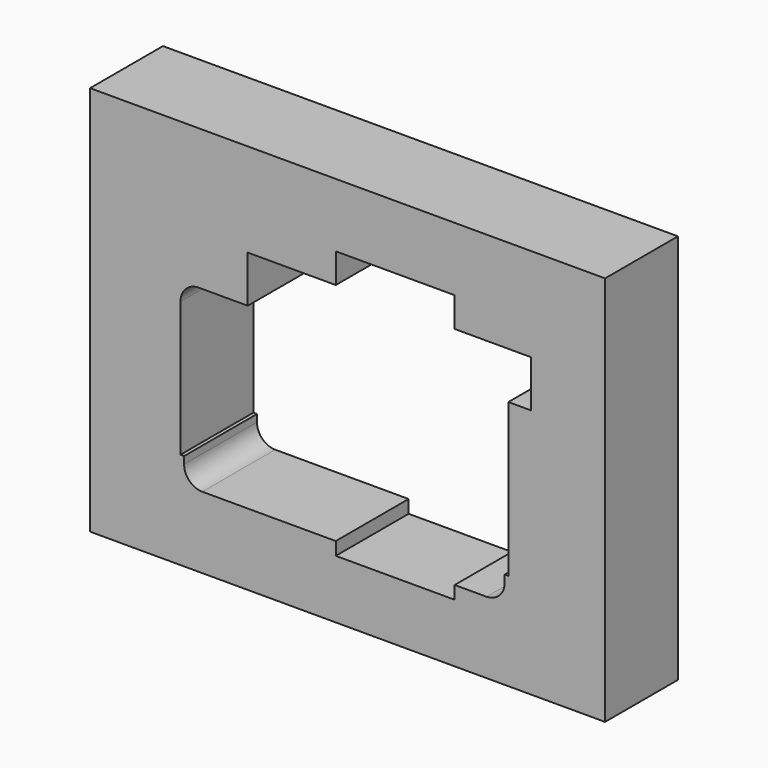
from build123d import *

# Parameters (mm, degrees)
F0_W     = 141.362779
F0_H     = 107.187158
F1_DEPTH = 25


with BuildPart() as f1:
    # F0 (on Front) → F1 (new body)
    with BuildSketch(Plane.XZ):
        with Locations((45.862112, 26.919876)):
            Rectangle(F0_W, F0_H)
        with BuildLine():
            Line((1, 0), (0, 0))
            Line((0, 0), (0, 37))
            ThreePointArc((0, 37), (1.464466, 40.535534), (5, 42))
            Line((5, 42), (18.459652, 42))
            Line((18.459652, 42), (18.459652, 54.857738))
            Line((18.459652, 54.857738), (42.625459, 54.857738))
            Line((42.625459, 54.857738), (42.625459, 63.017622))
            Line((42.625459, 63.017622), (75.264998, 63.017622))
            Line((75.264998, 63.017622), (75.264998, 54.857738))
            Line((75.264998, 54.857738), (96.153427, 54.857738))
            Line((96.153427, 54.857738), (96.153427, 42))
            Line((96.153427, 42), (90, 42))
            Line((90, 42), (90, 0))
            Line((90, 0), (89, 0))
            Line((89, 0), (89, -2))
            ThreePointArc((89, -2), (87.535534, -5.535534), (84, -7))
            Line((84, -7), (75.264998, -7))
            Line((75.264998, -7), (75.264998, -10.578251))
            Line((75.264998, -10.578251), (42.625459, -10.578251))
            Line((42.625459, -10.578251), (42.625459, -7))
            Line((42.625459, -7), (6, -7))
            ThreePointArc((6, -7), (2.464466, -5.535534), (1, -2))
            Line((1, -2), (1, 0))
        make_face(mode=Mode.SUBTRACT)
    extrude(amount=F1_DEPTH)


solid = f1.part
